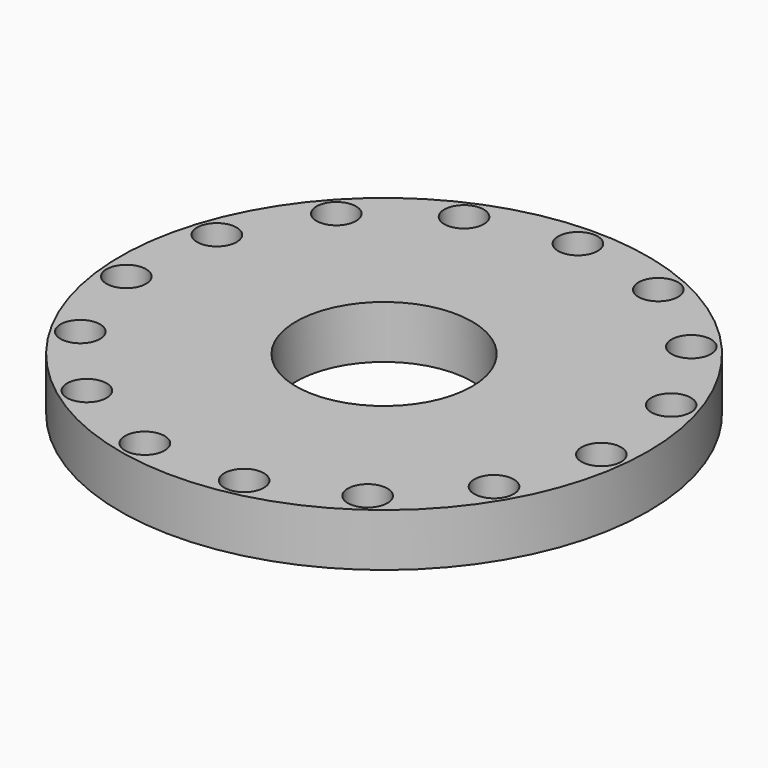
from build123d import *

# Parameters (mm, degrees)
F0_R     = 22.5
F0_R_2   = 18
F1_DEPTH = 3
F2_R     = 30
F2_R_2   = 2.25
F3_DEPTH = 6
F4_DEPTH = 3
F5_R     = 10
F6_DEPTH = 10


with BuildPart() as f1:
    # F0 (on Top) → F1 (new body)
    with BuildSketch(Plane.XY):
        with Locations((-35.527975389, 25.6118375491)):
            Circle(F0_R)
        with Locations((-35.527975389, 25.6118375491)):
            Circle(F0_R_2, mode=Mode.SUBTRACT)
    extrude(amount=F1_DEPTH)


with BuildPart() as f3:
    # F2 (on Top) → F3 (new body)
    with BuildSketch(Plane.XY):
        with Locations((-35.527975389, 25.6118375491)):
            Circle(F2_R)
        with Locations((-51.7297042582, 3.6392641531)):
            Circle(F2_R_2, mode=Mode.SUBTRACT)
        with Locations((-41.3919404606, -1.0509438819)):
            Circle(F2_R_2, mode=Mode.SUBTRACT)
        with Locations((-59.2660419463, 12.1287297427)):
            Circle(F2_R_2, mode=Mode.SUBTRACT)
        with Locations((-62.697852273, 22.9495471623)):
            Circle(F2_R_2, mode=Mode.SUBTRACT)
        with Locations((-30.0402438296, -1.1309147837)):
            Circle(F2_R_2, mode=Mode.SUBTRACT)
        with Locations((-19.6374258397, 3.4131791432)):
            Circle(F2_R_2, mode=Mode.SUBTRACT)
        with Locations((-11.982228228, 11.7956227769)):
            Circle(F2_R_2, mode=Mode.SUBTRACT)
        with Locations((-8.3983042068, 22.5670154611)):
            Circle(F2_R_2, mode=Mode.SUBTRACT)
        with Locations((-61.4317440559, 34.230698776)):
            Circle(F2_R_2, mode=Mode.SUBTRACT)
        with Locations((-55.686638908, 44.0215709836)):
            Circle(F2_R_2, mode=Mode.SUBTRACT)
        with Locations((-46.4559177018, 50.6292330332)):
            Circle(F2_R_2, mode=Mode.SUBTRACT)
        with Locations((-9.5053467983, 33.8648855457)):
            Circle(F2_R_2, mode=Mode.SUBTRACT)
        with Locations((-35.3356559926, 52.9111601277)):
            Circle(F2_R_2, mode=Mode.SUBTRACT)
        with Locations((-24.2486480541, 50.4727863418)):
            Circle(F2_R_2, mode=Mode.SUBTRACT)
        with Locations((-15.1119382813, 43.7357286551)):
            Circle(F2_R_2, mode=Mode.SUBTRACT)
    extrude(amount=F3_DEPTH)


with BuildPart() as f4_tool:
    # F0 (on Top) → F4 (new body)
    with BuildSketch(Plane.XY):
        with Locations((-35.527975389, 25.6118375491)):
            Circle(F0_R)
        with Locations((-35.527975389, 25.6118375491)):
            Circle(F0_R_2, mode=Mode.SUBTRACT)
    extrude(amount=F4_DEPTH)


with BuildPart() as f1_1:
    add(f1.part)

    # F4: cut by f4_tool
    add(f4_tool.part, mode=Mode.SUBTRACT)


with BuildPart() as f3_1:
    add(f3.part)

    # F4: cut by f4_tool
    add(f4_tool.part, mode=Mode.SUBTRACT)

    # F5 (on face) → F6 (cut)
    with BuildSketch(Plane(origin=(0, 0, 0), x_dir=(1, 0, 0), z_dir=(0, 0, -1))):
        with Locations((-35.527975389, -25.6118375491)):
            Circle(F5_R)
    extrude(amount=-F6_DEPTH, mode=Mode.SUBTRACT)


solid = f3_1.part
